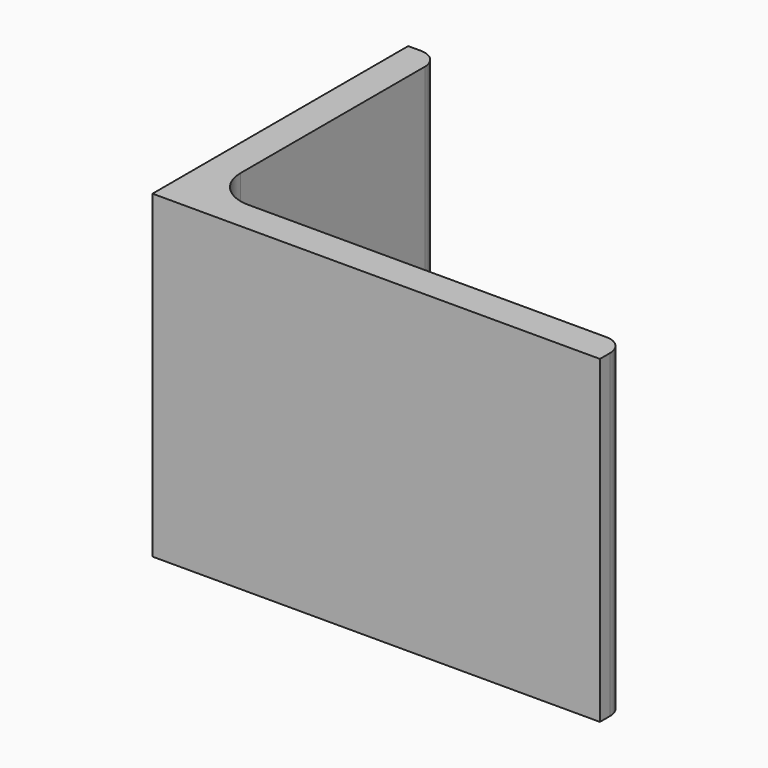
from build123d import *

# Parameters (mm, degrees)
EXTRUDE_DEPTH = 50


with BuildPart() as part:
    # Sketch → Extrude (new body)
    with BuildSketch(Plane.XY):
        with BuildLine():
            Line((0, 0), (70, 0))
            Line((70, 0), (70, 2))
            ThreePointArc((70, 2), (69.12132, 4.12132), (67, 5))
            Line((67, 5), (11, 5))
            ThreePointArc((5, 11), (6.757359, 6.757359), (11, 5))
            Line((5, 47), (5, 11))
            ThreePointArc((5, 47), (4.12132, 49.12132), (2, 50))
            Line((0, 50), (2, 50))
            Line((0, 0), (0, 50))
        make_face()
    extrude(amount=EXTRUDE_DEPTH)


solid = part.part
